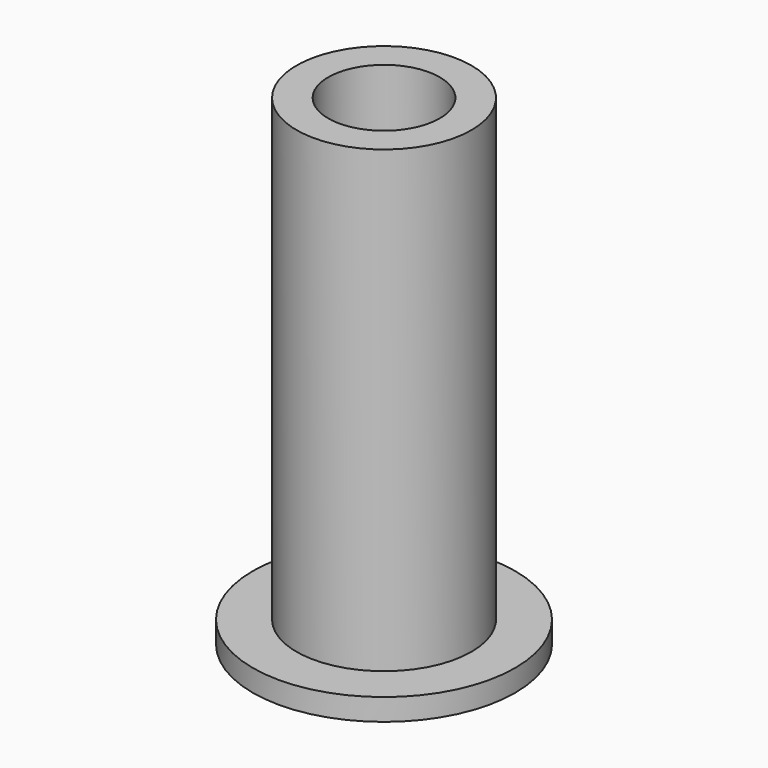
from build123d import *

# Parameters (mm, degrees)
SKETCH026_R          = 6
PAD012_DEPTH         = 1
SKETCH027_R          = 4
PAD013_DEPTH         = 21
SKETCH028_R          = 2.55
POCKET010_DEPTH      = 1.001
POCKET010_DEPTH_BACK = 21.001
CHAMFER_SIZE2        = 1
CHAMFER_SIZE         = 0.5


with BuildPart() as part:
    # Sketch026 → Pad012 (new body)
    with BuildSketch(Plane.XY):
        Circle(SKETCH026_R)
    extrude(amount=-PAD012_DEPTH)

    # Sketch027 → Pad013 (join)
    with BuildSketch(Plane.XY):
        Circle(SKETCH027_R)
    extrude(amount=PAD013_DEPTH)

    # Sketch028 → Pocket010 (cut, two sides)
    with BuildSketch(Plane.XY) as pocket010_sk:
        Circle(SKETCH028_R)
    extrude(amount=-POCKET010_DEPTH, mode=Mode.SUBTRACT)
    extrude(pocket010_sk.sketch, amount=POCKET010_DEPTH_BACK, mode=Mode.SUBTRACT)

    # Chamfer
    chamfer_edges = [part.edges().sort_by_distance(p)[0] for p in [
        (-2.55, 0, -1),
    ]]
    chamfer_side = part.faces().sort_by_distance((-5.830294, 0, -1))[0]
    chamfer(chamfer_edges, length=CHAMFER_SIZE, length2=CHAMFER_SIZE2, reference=chamfer_side)


solid = part.part
